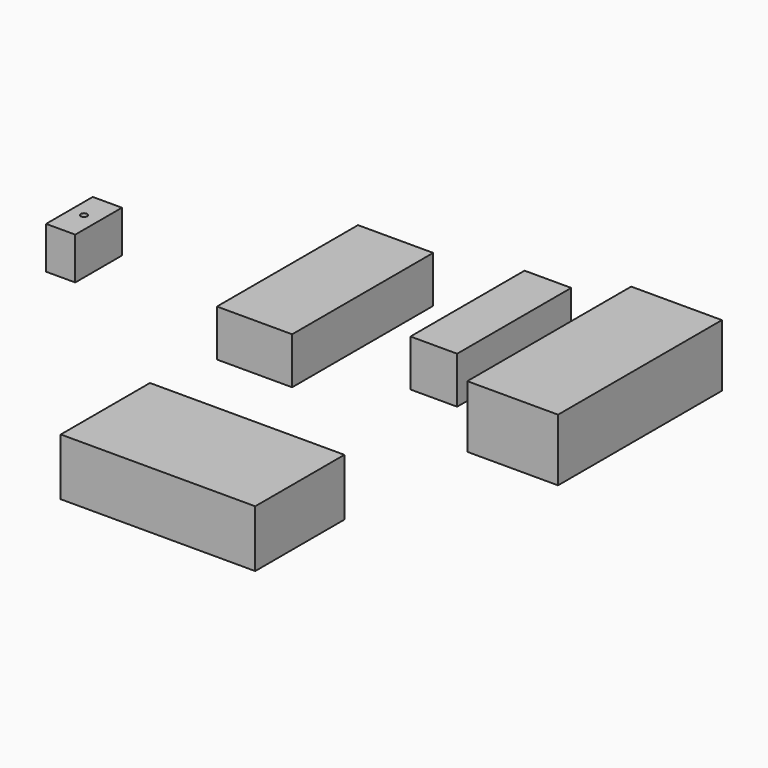
from build123d import *

# Parameters (mm, degrees)
F0_W      = 45.72
F0_H      = 139.7
F1_DEPTH  = 45.72
F2_W      = 73.66
F2_H      = 172.72
F3_DEPTH  = 45.72
F4_W      = 88.9
F4_H      = 200.66
F5_DEPTH  = 60.96
F6_W      = 190.5
F6_H      = 109.22
F7_DEPTH  = 55.88
F8_W      = 57.15
F8_H      = 41.275
F9_DEPTH  = 28.575
F10_R     = 3.175
F11_DEPTH = 12.7


with BuildPart() as f1:
    # F0 (on Top) → F1 (new body)
    with BuildSketch(Plane.XY):
        with Locations((22.86, 69.85)):
            Rectangle(F0_W, F0_H)
    extrude(amount=F1_DEPTH)


with BuildPart() as f3:
    # F2 (on Top) → F3 (new body)
    with BuildSketch(Plane.XY):
        with Locations((-109.792436, 32.653842)):
            Rectangle(F2_W, F2_H)
    extrude(amount=F3_DEPTH)


with BuildPart() as f5:
    # F4 (on Top) → F5 (new body)
    with BuildSketch(Plane.XY):
        with Locations((142.90189, 46.859073)):
            Rectangle(F4_W, F4_H)
    extrude(amount=F5_DEPTH)


with BuildPart() as f7:
    # F6 (on Top) → F7 (new body)
    with BuildSketch(Plane.XY):
        with Locations((-0.077095, -254.467794)):
            Rectangle(F6_W, F6_H)
    extrude(amount=F7_DEPTH)


with BuildPart() as f9:
    # F8 (on Right) → F9 (new body)
    with BuildSketch(Plane.YZ):
        with Locations((-417.620629, 303.6042)):
            Rectangle(F8_W, F8_H)
    extrude(amount=F9_DEPTH)

    # F10 (on face) → F11 (cut)
    with BuildSketch(Plane.XY.offset(324.2417)):
        with Locations((13.638811, -416.799664)):
            Circle(F10_R)
    extrude(amount=-F11_DEPTH, mode=Mode.SUBTRACT)


solid = Compound([f1.part, f3.part, f5.part, f7.part, f9.part])
